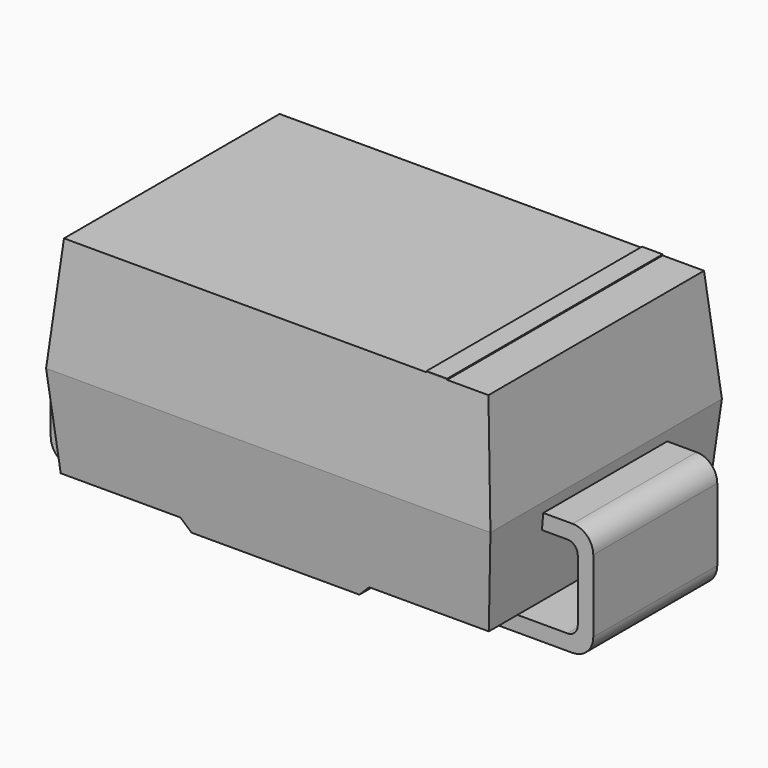
from build123d import *

# Parameters (mm, degrees)
F0_W      = 4.3
F0_H      = 2.8
F1_DEPTH  = 1.1
F1_TAPER  = 5
F2_DEPTH  = 1
F2_TAPER  = 5
F4_DEPTH  = 0.75
F5_R      = 0.2
F5_2_R    = 0.2
F6_R      = 0.1
F6_2_R    = 0.1
F8_DEPTH  = 12.5
F9_W      = 0.2
F9_H      = 2.6075249402
F10_DEPTH = 0.01


with BuildPart() as f1:
    # F0 (on Top) → F1 (new body)
    with BuildSketch(Plane.XY):
        Rectangle(F0_W, F0_H)
    extrude(amount=F1_DEPTH, taper=F1_TAPER)

    # F0 (on Top) → F2 (join)
    with BuildSketch(Plane.XY):
        Rectangle(F0_W, F0_H)
    extrude(amount=-F2_DEPTH, taper=F2_TAPER)

    # F7 (on Front) → F8 (cut, symmetric)
    with BuildSketch(Plane.XZ):
        Polygon((2.0625113365, -1), (2.0712602028, -0.9), (0.9125113365, -0.9), (0.8125113365, -1), align=None)
        Polygon((-2.0712602028, -0.9), (-2.0625113365, -1), (-0.8125113365, -1), (-0.9125113365, -0.9), align=None)
    extrude(amount=F8_DEPTH, both=True, mode=Mode.SUBTRACT)


with BuildPart() as f4:
    # F3 (on Front) → F4 (new body, symmetric)
    with BuildSketch(Plane.XZ):
        Polygon((-2.1281278341, -0.25), (-2.1412511336, -0.1), (-2.625, -0.1), (-2.625, -1.2), (-1, -1.2), (-1, -1.05), (-2.475, -1.05), (-2.475, -0.25), align=None)
    extrude(amount=F4_DEPTH, both=True)

    # F5
    f5_edges = [f4.edges().sort_by_distance(p)[0] for p in [
        (-2.625, 0, -0.1),
        (-2.625, 0, -1.2),
    ]]
    fillet(f5_edges, radius=F5_R)

    # F6
    f6_edges = [f4.edges().sort_by_distance(p)[0] for p in [
        (-2.475, 0, -0.25),
        (-2.475, 0, -1.05),
    ]]
    fillet(f6_edges, radius=F6_R)


with BuildPart() as f4b:
    # F3 (on Front) → F4, piece 2 (new body, symmetric)
    with BuildSketch(Plane.XZ):
        Polygon((2.1412511336, -0.1), (2.1281278341, -0.25), (2.475, -0.25), (2.475, -1.05), (1, -1.05), (1, -1.2), (2.625, -1.2), (2.625, -0.1), align=None)
    extrude(amount=F4_DEPTH, both=True)

    # F5#2
    f5_2_edges = [f4b.edges().sort_by_distance(p)[0] for p in [
        (2.625, 0, -0.1),
        (2.625, 0, -1.2),
    ]]
    fillet(f5_2_edges, radius=F5_2_R)

    # F6#2
    f6_2_edges = [f4b.edges().sort_by_distance(p)[0] for p in [
        (2.475, 0, -1.05),
        (2.475, 0, -0.25),
    ]]
    fillet(f6_2_edges, radius=F6_2_R)


with BuildPart() as f10:
    # F9 (on face) → F10 (new body)
    with BuildSketch(Plane.XY.offset(1.1)):
        with Locations((1.5537624701, 0)):
            Rectangle(F9_W, F9_H)
    extrude(amount=F10_DEPTH)


solid = Compound([f1.part, f4.part, f4b.part, f10.part])
